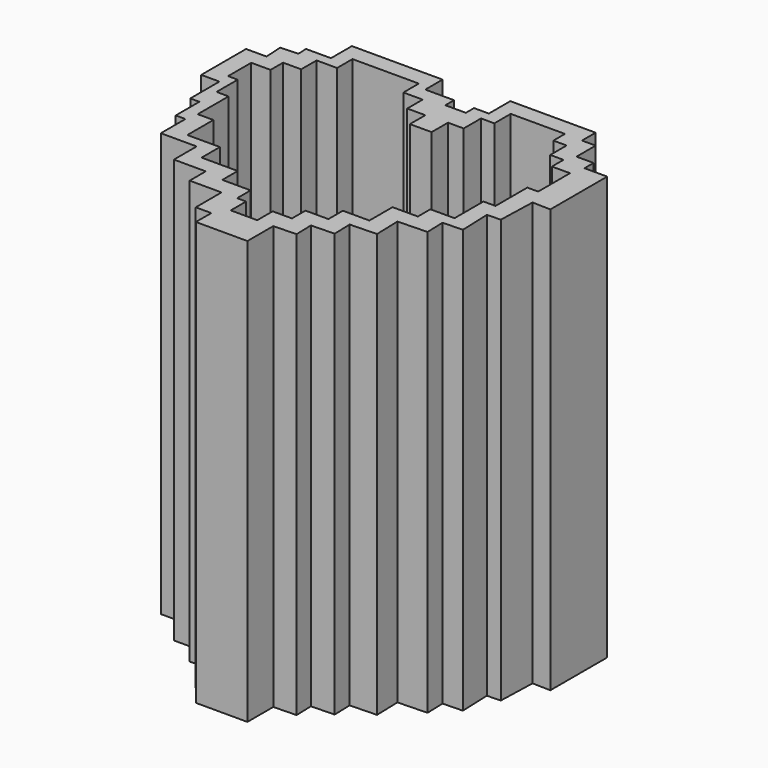
from build123d import *

# Parameters (mm, degrees)
F1_DEPTH = 6.35
F2_DEPTH = 50.8


with BuildPart() as f1:
    # F0 (on Top) → F1 (new body)
    with BuildSketch(Plane.XY):
        Polygon((3.252794, 21.851061), (3.252794, 22.285081), (3.252794, 24.165833), (1.082697, 24.165833), (1.082697, 26.480602), (-1.232074, 26.480602), (-1.232074, 28.795373), (-3.402171, 28.795373), (-6.440307, 28.795373), (-9.189097, 28.795373), (-9.189097, 26.480602), (-11.64854, 26.480602), (-11.64854, 24.165833), (-13.818637, 24.165833), (-13.818637, 22.285081), (-16.133409, 22.285081), (-16.133409, 18.812926), (-14.976023, 18.812926), (-14.976023, 15.630117), (-13.529291, 15.630117), (-13.529291, 11.000575), (-11.64854, 11.000575), (-11.64854, 7.0944), (-7.742365, 7.0944), (-7.742365, 4.345611), (-3.402171, 4.345611), (-3.402171, 2.03084), (0, 2.03084), (0, 0), (1.082697, 0), (1.082697, -2.309354), (4.265506, -2.309354), (4.265506, 0), (6.580276, 0), (6.580276, 2.03084), (9.329067, 2.03084), (9.329067, 4.200937), (12.511875, 4.200937), (12.511875, 7.673093), (15.550012, 7.673093), (15.550012, 9.553844), (18.443475, 9.553844), (18.443475, 13.894038), (19.890206, 13.894038), (19.890206, 18.668253), (21.192264, 18.668253), (21.192264, 23.442466), (19.022167, 23.442466), (19.022167, 25.178544), (17.430764, 25.178544), (17.430764, 27.637988), (15.839359, 27.637988), (15.839359, 29.374065), (9.329067, 29.374065), (9.329067, 26.914621), (7.737662, 26.914621), (7.737662, 24.310505), (5.856911, 24.310505), (5.856911, 21.851061), align=None)
    extrude(amount=F1_DEPTH)

    # F0 (on Top) → F2 (join)
    with BuildSketch(Plane.XY):
        Polygon((0, 28.223222), (0, 30.817736), (-10.882908, 30.817736), (-10.882908, 27.677011), (-13.887079, 27.677011), (-13.818637, 26.480602), (-15.930331, 26.359802), (-15.804824, 24.165833), (-18.256783, 24.165833), (-18.256783, 17.435515), (-16.071932, 17.435515), (-16.071932, 13.06581), (-14.979505, 13.06581), (-14.979505, 9.515426), (-13.818637, 9.515426), (-13.818637, 5.828488), (-9.517374, 5.828488), (-9.517374, 2.414656), (-5.693883, 2.414656), (-5.693883, 0), (-1.870391, 0), (-1.870391, -3.866795), (0, -3.866795), (0, -6.188201), (6.186252, -6.188201), (6.186252, -2.309354), (8.917317, -2.228155), (8.85107, 0), (11.64057, 0.082936), (11.571244, 2.414656), (14.78221, 2.510123), (14.687699, 5.688919), (18.212094, 5.793705), (18.142457, 8.135915), (20.526713, 8.206803), (20.387793, 11.973385), (22.019175, 12.033554), (22.162985, 16.616195), (24.341406, 16.547833), (24.341406, 25.082497), (21.616772, 25.082497), (21.616772, 26.448032), (19.568473, 26.448032), (19.568473, 29.31565), (17.929833, 29.31565), (17.929833, 31.363949), (7.688338, 31.363949), (7.688338, 28.144343), (5.913145, 28.144343), (5.913145, 26.914621), (3.455187, 26.914621), (3.455187, 28.223222), align=None)
        Polygon((3.252794, 24.165833), (3.252794, 22.285081), (3.252794, 21.851061), (5.856911, 21.851061), (5.856911, 24.310505), (7.737662, 24.310505), (7.737662, 26.914621), (9.329067, 26.914621), (9.329067, 29.374065), (15.839359, 29.374065), (15.839359, 27.637988), (17.430764, 27.637988), (17.430764, 25.178544), (19.022167, 25.178544), (19.022167, 23.442466), (21.192264, 23.442466), (21.192264, 18.668253), (19.890206, 18.668253), (19.890206, 13.894038), (18.443475, 13.894038), (18.443475, 9.553844), (15.550012, 9.553844), (15.550012, 7.673093), (12.511875, 7.673093), (12.511875, 4.200937), (9.329067, 4.200937), (9.329067, 2.03084), (6.580276, 2.03084), (6.580276, 0), (4.265506, 0), (4.265506, -2.309354), (1.082697, -2.309354), (1.082697, 0), (0, 0), (0, 2.03084), (-3.402171, 2.03084), (-3.402171, 4.345611), (-7.742365, 4.345611), (-7.742365, 7.0944), (-11.64854, 7.0944), (-11.64854, 11.000575), (-13.529291, 11.000575), (-13.529291, 15.630117), (-14.976023, 15.630117), (-14.976023, 18.812926), (-16.133409, 18.812926), (-16.133409, 22.285081), (-13.818637, 22.285081), (-13.818637, 24.165833), (-11.64854, 24.165833), (-11.64854, 26.480602), (-9.189097, 26.480602), (-9.189097, 28.795373), (-6.440307, 28.795373), (-3.402171, 28.795373), (-1.232074, 28.795373), (-1.232074, 26.480602), (1.082697, 26.480602), (1.082697, 24.165833), align=None, mode=Mode.SUBTRACT)
    extrude(amount=F2_DEPTH)


solid = f1.part
